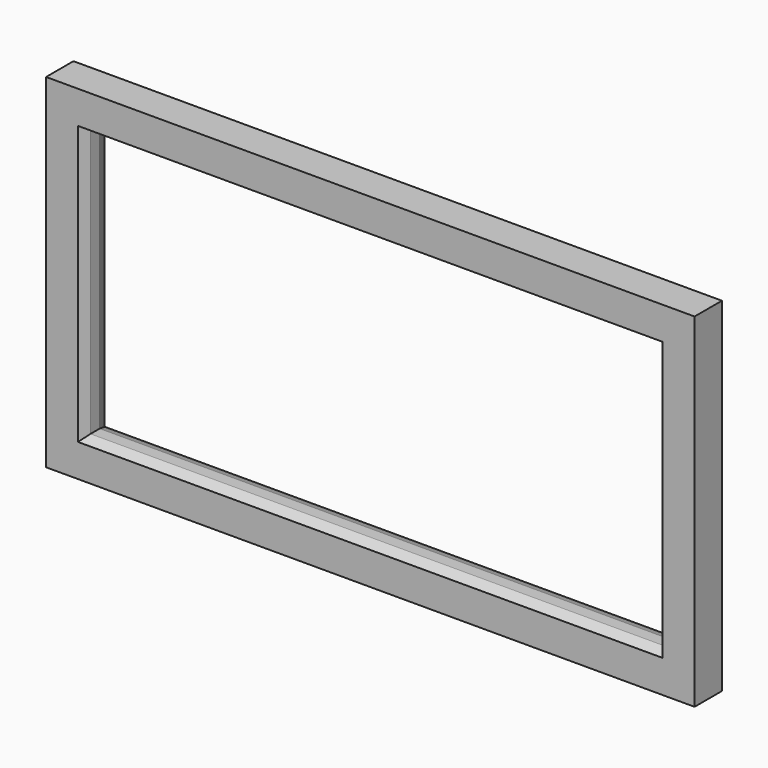
from build123d import *

# Parameters (mm, degrees)
F0_W     = 853
F0_H     = 452
F0_W_2   = 757
F0_H_2   = 354
F1_DEPTH = 22.5
F2_SIZE2 = 13
F2_SIZE  = 6
F3_SIZE2 = 7
F3_SIZE  = 17


with BuildPart() as f1:
    # F0 (on Front) → F1 (new body, symmetric)
    with BuildSketch(Plane.XZ):
        Rectangle(F0_W, F0_H)
        Rectangle(F0_W_2, F0_H_2, mode=Mode.SUBTRACT)
    extrude(amount=F1_DEPTH, both=True)

    # F2
    f2_edges = [f1.edges().sort_by_distance(p)[0] for p in [
        (0, -22.5, -177),
        (-378.5, -22.5, 0),
        (378.5, -22.5, 0),
        (0, -22.5, 177),
    ]]
    chamfer(f2_edges, length=F2_SIZE, length2=F2_SIZE2)

    # F3
    f3_edges = [f1.edges().sort_by_distance(p)[0] for p in [
        (0, 22.5, -177),
        (-378.5, 22.5, 0),
        (0, 22.5, 177),
        (378.5, 22.5, 0),
    ]]
    chamfer(f3_edges, length=F3_SIZE, length2=F3_SIZE2)


solid = f1.part
